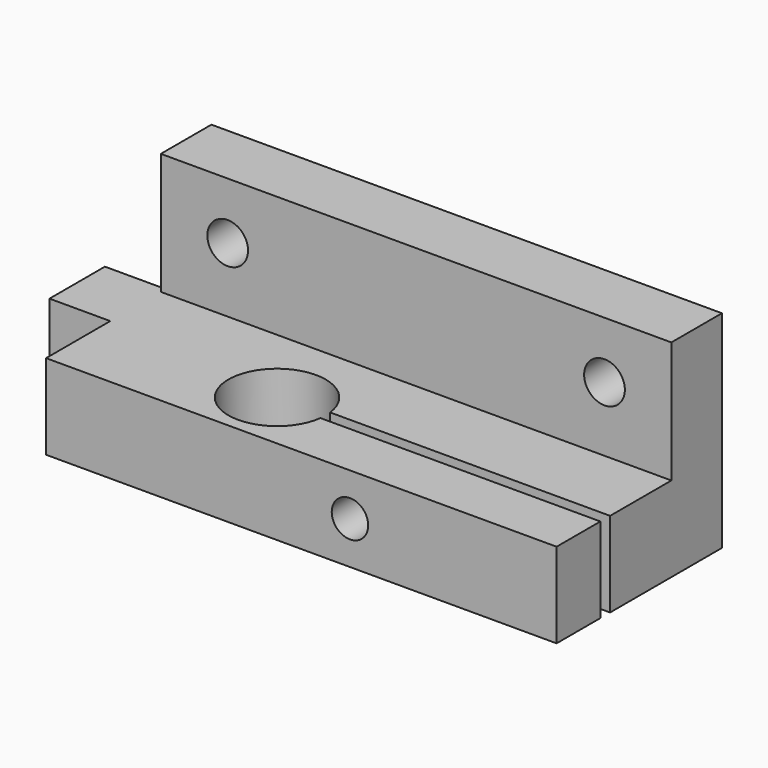
from build123d import *

# Parameters (mm, degrees)
F0_W      = 42
F0_H      = 17
F1_DEPTH  = 7
F4_DEPTH  = 25
F5_W      = 42
F5_H      = 5.2
F6_DEPTH  = 10
F7_R      = 1.675
F8_DEPTH  = 25
F9_DEPTH  = 25
F10_W     = 5.7
F10_H     = 7
F11_DEPTH = 5


with BuildPart() as f1:
    # F0 (on Top) → F1 (new body)
    with BuildSketch(Plane.XY):
        with Locations((21, 8.5)):
            Rectangle(F0_W, F0_H)
    extrude(amount=F1_DEPTH)

    # F3 (on face) → F4 (cut)
    with BuildSketch(Plane(origin=(0, 17, 0), x_dir=(-1, 0, 0), z_dir=(0, 1, 0))):
        with BuildLine():
            ThreePointArc((-26.5, 3.5), (-25, 2), (-23.5, 3.5))
            ThreePointArc((-23.5, 3.5), (-25, 5), (-26.5, 3.5))
        make_face()
    extrude(amount=-F4_DEPTH, mode=Mode.SUBTRACT)

    # F5 (on face) → F6 (join)
    with BuildSketch(Plane.XY.offset(7)):
        with Locations((21, 14.4)):
            Rectangle(F5_W, F5_H)
    extrude(amount=F6_DEPTH)

    # F7 (on face) → F8 (cut)
    with BuildSketch(Plane(origin=(0, 17, 0), x_dir=(-1, 0, 0), z_dir=(0, 1, 0))):
        with Locations((-36.5, 12.325)):
            Circle(F7_R)
        with Locations((-5.5, 12.325)):
            Circle(F7_R)
    extrude(amount=-F8_DEPTH, mode=Mode.SUBTRACT)

    # F2 (on face) → F9 (cut)
    with BuildSketch(Plane.XY.offset(7)):
        with BuildLine():
            ThreePointArc((18.9686269666, 4.5), (18.9921490369, 4.7495083498), (19, 5))
            ThreePointArc((19, 5), (18.9921490369, 5.2504916502), (18.9686269666, 5.5))
            ThreePointArc((18.9686269666, 5.5), (11, 5), (18.9686269666, 4.5))
        make_face()
        with BuildLine():
            Line((42, 5), (19, 5))
            ThreePointArc((19, 5), (18.9921490369, 4.7495083498), (18.9686269666, 4.5))
            Line((18.9686269666, 4.5), (42, 4.5))
            Line((42, 4.5), (42, 5))
        make_face()
        with BuildLine():
            ThreePointArc((18.9686269666, 5.5), (18.9921490369, 5.2504916502), (19, 5))
            Line((19, 5), (42, 5))
            Line((42, 5), (42, 5.5))
            Line((42, 5.5), (18.9686269666, 5.5))
        make_face()
    extrude(amount=-F9_DEPTH, mode=Mode.SUBTRACT)

    # F10 (on face) → F11 (join)
    with BuildSketch(Plane(origin=(0, 0, 0), x_dir=(0, -1, 0), z_dir=(-1, 0, 0))):
        with Locations((-9.45, 3.5)):
            Rectangle(F10_W, F10_H)
    extrude(amount=F11_DEPTH)


solid = f1.part
